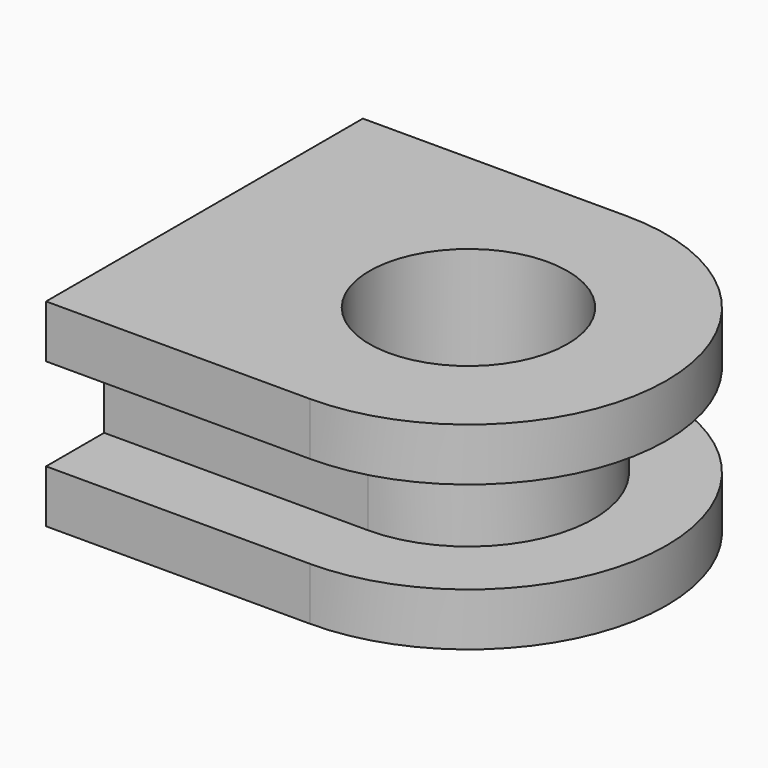
from build123d import *

# Parameters (mm, degrees)
F0_R     = 7.5
F1_DEPTH = 7.5
F2_DEPTH = 3.5


with BuildPart() as f1:
    # F0 (on Top) → F1 (new body, symmetric)
    with BuildSketch(Plane.XY):
        with BuildLine():
            Line((32.020504, 8.144187), (12.020504, 8.144187))
            Line((12.020504, 8.144187), (12.020504, -10.855813))
            Line((12.020504, -10.855813), (32.020504, -10.855813))
            ThreePointArc((32.020504, -10.855813), (41.520504, -1.355813), (32.020504, 8.144187))
        make_face()
        with Locations((32.020504, -1.355813)):
            Circle(F0_R, mode=Mode.SUBTRACT)
        with BuildLine():
            Line((32.020504, 8.144187), (12.020504, 8.144187))
            Line((12.020504, 8.144187), (12.020504, -10.855813))
            Line((12.020504, -10.855813), (32.020504, -10.855813))
            ThreePointArc((32.020504, -10.855813), (41.520504, -1.355813), (32.020504, 8.144187))
        make_face()
        with Locations((32.020504, -1.355813)):
            Circle(F0_R, mode=Mode.SUBTRACT)
        with BuildLine():
            Line((32.020504, 13.644187), (12.020504, 13.644187))
            Line((12.020504, 13.644187), (12.020504, 8.144187))
            Line((12.020504, 8.144187), (32.020504, 8.144187))
            ThreePointArc((32.020504, 8.144187), (41.520504, -1.355813), (32.020504, -10.855813))
            Line((32.020504, -10.855813), (12.020504, -10.855813))
            Line((12.020504, -10.855813), (12.020504, -16.355813))
            Line((12.020504, -16.355813), (32.020504, -16.355813))
            ThreePointArc((32.020504, -16.355813), (47.020504, -1.355813), (32.020504, 13.644187))
        make_face()
    extrude(amount=F1_DEPTH, both=True)

    # F0 (on Top) → F2 (cut, symmetric)
    with BuildSketch(Plane.XY):
        with BuildLine():
            Line((32.020504, 13.644187), (12.020504, 13.644187))
            Line((12.020504, 13.644187), (12.020504, 8.144187))
            Line((12.020504, 8.144187), (32.020504, 8.144187))
            ThreePointArc((32.020504, 8.144187), (41.520504, -1.355813), (32.020504, -10.855813))
            Line((32.020504, -10.855813), (12.020504, -10.855813))
            Line((12.020504, -10.855813), (12.020504, -16.355813))
            Line((12.020504, -16.355813), (32.020504, -16.355813))
            ThreePointArc((32.020504, -16.355813), (47.020504, -1.355813), (32.020504, 13.644187))
        make_face()
    extrude(amount=F2_DEPTH, both=True, mode=Mode.SUBTRACT)


solid = f1.part
